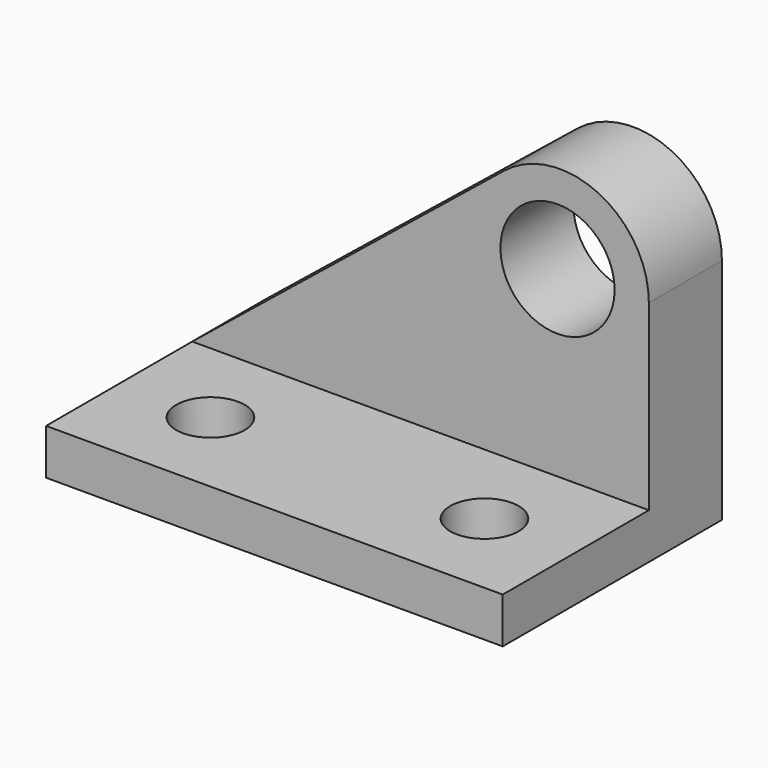
from build123d import *

# Parameters (mm, degrees)
F1_DEPTH = 25.4
F2_W     = 127
F2_H     = 12.7
F3_DEPTH = 76.2
F5_D     = 31.75
F7_D     = 19.05
F9_D     = 19.05


with BuildPart() as f1:
    # F0 (on Front) → F1 (new body)
    with BuildSketch(Plane.XZ):
        with BuildLine():
            Line((86.757276, 70.032973), (0, 0))
            Line((0, 0), (127, 0))
            Line((127, 0), (127, 50.8))
            ThreePointArc((127, 50.8), (112.940997, 73.101256), (86.757276, 70.032973))
        make_face()
    extrude(amount=F1_DEPTH)

    # F2 (on Front) → F3 (join)
    with BuildSketch(Plane.XZ):
        with Locations((63.5, -6.35)):
            Rectangle(F2_W, F2_H)
    extrude(amount=F3_DEPTH)

    # F5 (through all)
    with Locations(Plane.XZ.offset(25.4)):
        with Locations((101.6, 50.8)):
            Hole(F5_D / 2)

    # F7 (through all)
    with Locations(Plane.XY):
        with Locations((25.4, -50.8)):
            Hole(F7_D / 2)

    # F9 (through all)
    with Locations(Plane.XY):
        with Locations((101.6, -50.8)):
            Hole(F9_D / 2)


solid = f1.part
